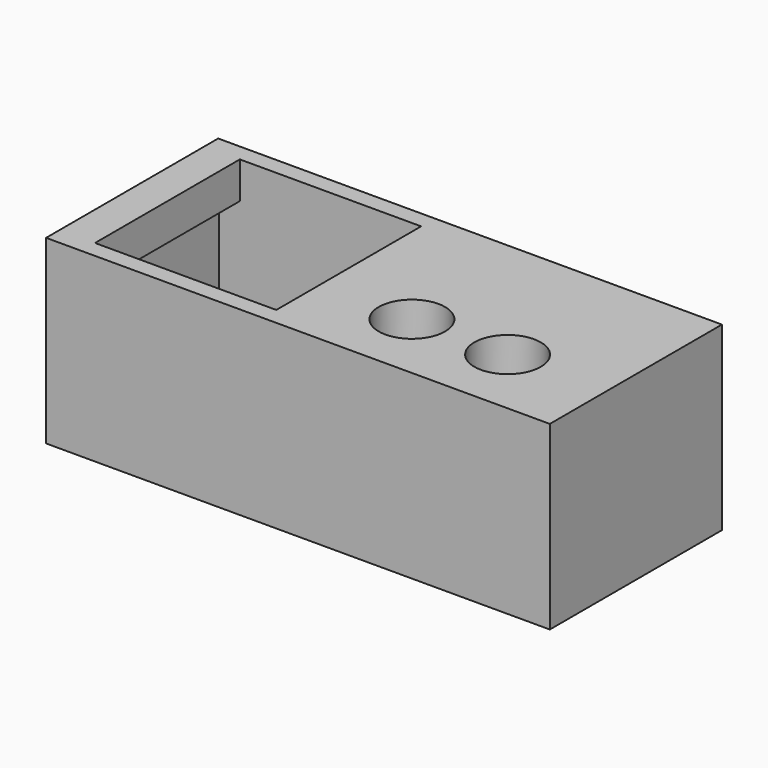
from build123d import *

# Parameters (mm, degrees)
F0_W     = 96
F0_H     = 82
F0_W_2   = 69.1
F0_H_2   = 69
F0_R     = 16.48
F0_R_2   = 12.65
F1_DEPTH = 69
F2_W     = 7.927198
F2_H     = 69
F2_W_2   = 69.1
F2_W_3   = 102.119725
F2_R     = 12.65
F3_DEPTH = 55


with BuildPart() as f1:
    # F0 (on Top) → F1 (new body)
    with BuildSketch(Plane.XY):
        Rectangle(F0_W, F0_H)
        Rectangle(F0_W_2, F0_H_2, mode=Mode.SUBTRACT)
        with Locations((96, 0)):
            Rectangle(F0_W, F0_H)
        with Locations((69.803953, -13.947256)):
            Circle(F0_R, mode=Mode.SUBTRACT)
        with Locations((106.265411, -13.947256)):
            Circle(F0_R, mode=Mode.SUBTRACT)
        with Locations((69.803953, -13.947256)):
            Circle(F0_R)
        with Locations((69.803953, -13.947256)):
            Circle(F0_R_2, mode=Mode.SUBTRACT)
        with Locations((106.265411, -13.947256)):
            Circle(F0_R)
        with Locations((106.265411, -13.947256)):
            Circle(F0_R_2, mode=Mode.SUBTRACT)
    extrude(amount=-F1_DEPTH)

    # F2 (on face) → F3 (cut)
    with BuildSketch(Plane(origin=(0, 0, -69), x_dir=(1, 0, 0), z_dir=(0, 0, -1))):
        with Locations((-38.513599, 0)):
            Rectangle(F2_W, F2_H)
        Rectangle(F2_W_2, F2_H)
        with Locations((85.609862, 0)):
            Rectangle(F2_W_3, F2_H)
        with Locations((69.803953, 13.947256)):
            Circle(F2_R, mode=Mode.SUBTRACT)
        with Locations((106.265411, 13.947256)):
            Circle(F2_R, mode=Mode.SUBTRACT)
    extrude(amount=-F3_DEPTH, mode=Mode.SUBTRACT)


solid = f1.part
